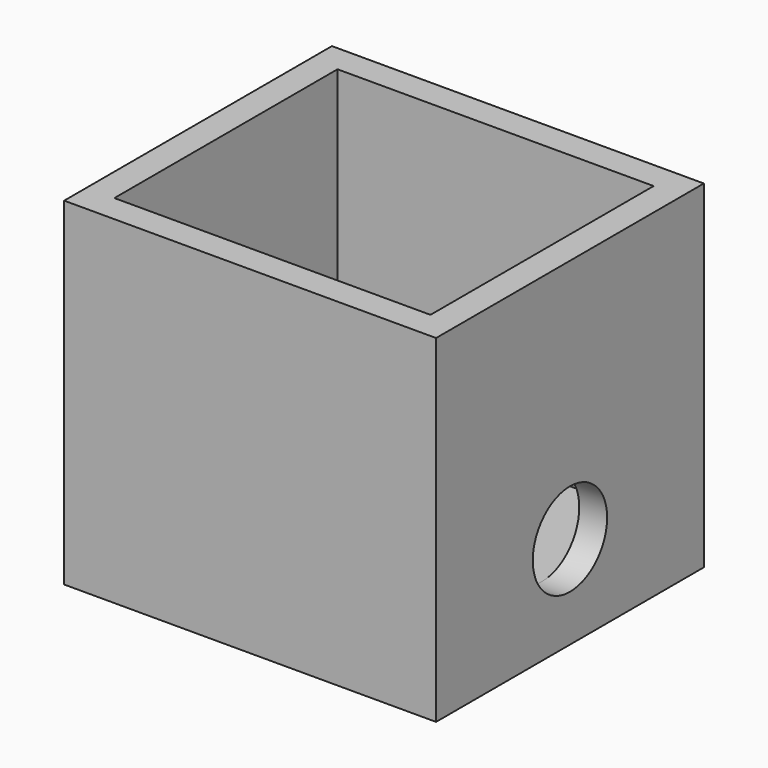
from build123d import *

# Parameters (mm, degrees)
F0_W     = 40
F0_H     = 36
F0_W_2   = 34
F0_H_2   = 30
F1_DEPTH = 36.35
F0_R     = 3
F2_DEPTH = 5
F3_R     = 5
F4_DEPTH = 40.001


with BuildPart() as f1:
    # F0 (on Top) → F1 (new body)
    with BuildSketch(Plane.XY):
        with Locations((3.016732, 5.513384)):
            Rectangle(F0_W, F0_H)
        with Locations((3.016732, 5.513384)):
            Rectangle(F0_W_2, F0_H_2, mode=Mode.SUBTRACT)
    extrude(amount=F1_DEPTH)

    # F0 (on Top) → F2 (join)
    with BuildSketch(Plane.XY):
        with Locations((3.016732, 5.513384)):
            Rectangle(F0_W, F0_H)
        with Locations((3.016732, 5.513384)):
            Rectangle(F0_W_2, F0_H_2, mode=Mode.SUBTRACT)
        with Locations((3.016732, 5.513384)):
            Rectangle(F0_W_2, F0_H_2)
        with Locations((3.016732, -4.486616)):
            Circle(F0_R, mode=Mode.SUBTRACT)
        with Locations((3.016732, 15.513384)):
            Circle(F0_R, mode=Mode.SUBTRACT)
    extrude(amount=F2_DEPTH)

    # F3 (on face) → F4 (cut, through all)
    with BuildSketch(Plane.YZ.offset(23.016732)):
        with Locations((5.513384, 10)):
            Circle(F3_R)
    extrude(amount=-F4_DEPTH, mode=Mode.SUBTRACT)


solid = f1.part
